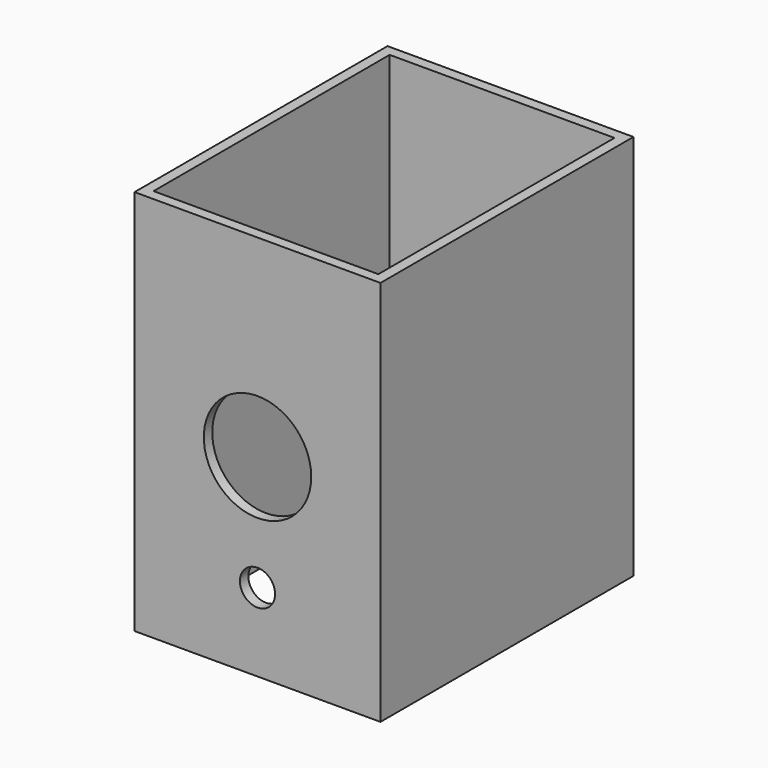
from build123d import *

# Parameters (mm, degrees)
F0_W     = 177.8
F0_H     = 228.6
F0_W_2   = 162.56
F0_H_2   = 213.36
F1_DEPTH = 139.7
F2_R     = 12.7
F2_R_2   = 38.829729
F3_DEPTH = 254


with BuildPart() as f1:
    # F0 (on Top) → F1 (new body, symmetric)
    with BuildSketch(Plane.XY):
        Rectangle(F0_W, F0_H)
        Rectangle(F0_W_2, F0_H_2, mode=Mode.SUBTRACT)
    extrude(amount=F1_DEPTH, both=True)

    # F2 (on Front) → F3 (cut)
    with BuildSketch(Plane.XZ):
        with Locations((0, -83.161757)):
            Circle(F2_R)
        Circle(F2_R_2)
    extrude(amount=F3_DEPTH, mode=Mode.SUBTRACT)


solid = f1.part
